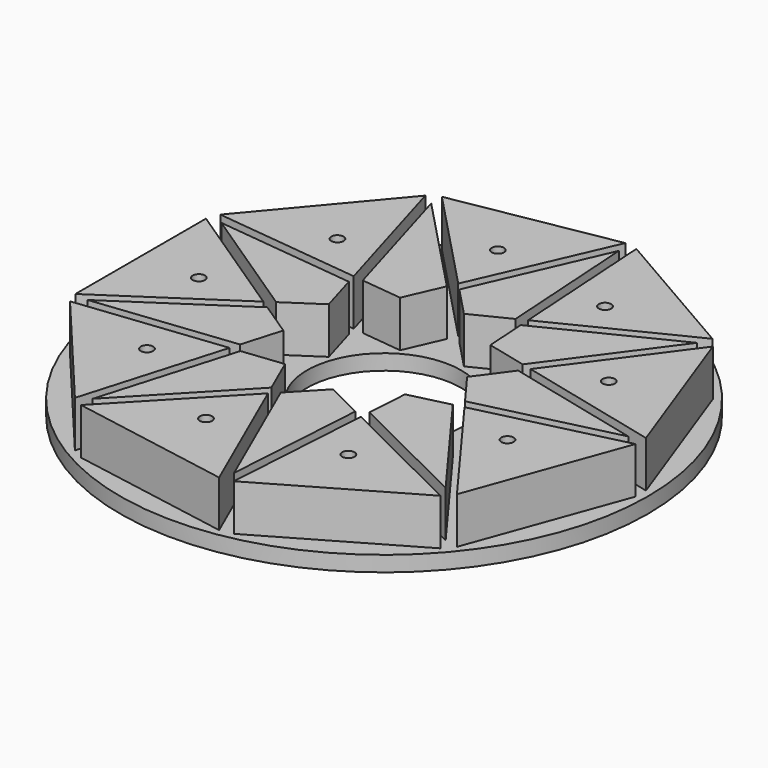
from build123d import *

# Parameters (mm, degrees)
SKETCH002_R   = 85.5
SKETCH002_R_2 = 25
PAD_DEPTH     = 5
PAD001_DEPTH  = 20
SKETCH001_R   = 2
POCKET_DEPTH  = 20.001


with BuildPart() as part:
    # Sketch002 → Pad (new body)
    with BuildSketch(Plane.XY):
        Circle(SKETCH002_R)
        Circle(SKETCH002_R_2, mode=Mode.SUBTRACT)
    extrude(amount=PAD_DEPTH)

    # Sketch → Pad001 (join)
    with BuildSketch(Plane.XY):
        Polygon((16.521561, 81.502157), (62.322158, 55.05917), (19.550743, 33.86288), align=None)
        Polygon((-39.732327, 73.054129), (12.350191, 82.237682), (-6.789902, 38.507446), align=None)
        Polygon((13.742249, 77.936164), (-4.545372, 36.15361), (4.670681, 26.488746), (16.636515, 32.418672), align=None)
        Polygon((19.757136, 30.616981), (60.623574, 50.869218), (33.582631, 14.140398), (20.604587, 17.289301), align=None)
        Polygon((65.044827, 51.81442), (36.743377, 13.373496), (83.132895, 2.11786), align=None)
        Polygon((34.81506, 10.754326), (79.138455, 0), (34.81506, -10.754326), (26.897378, 0), align=None)
        Polygon((36.743377, -13.373496), (83.132895, -2.11786), (65.044827, -51.81442), align=None)
        Polygon((20.604587, -17.289301), (33.582631, -14.140398), (60.623574, -50.869218), (19.757136, -30.616981), align=None)
        Polygon((19.550743, -33.86288), (16.521561, -81.502157), (62.322158, -55.05917), align=None)
        Polygon((4.670681, -26.488746), (16.636515, -32.418672), (13.742249, -77.936164), (-4.545372, -36.15361), align=None)
        Polygon((-6.789902, -38.507446), (12.350191, -82.237682), (-39.732327, -73.054129), align=None)
        Polygon((-26.721049, -24.773563), (-13.448689, -23.293813), (-8.094011, -35.527889), (-39.569228, -68.535913), align=None)
        Polygon((-29.953476, -25.13395), (-43.400568, -70.936269), (-77.395018, -30.423262), align=None)
        Polygon((-74.365822, -27.066946), (-36.393651, -1.801691), (-25.275268, -9.199445), (-29.037259, -22.013212), align=None)
        Polygon((-39.101485, 0), (-78.843719, -26.442988), (-78.843719, 26.442988), align=None)
        Polygon((-74.365822, 27.066946), (-36.393651, 1.801691), (-25.275268, 9.199445), (-29.037259, 22.013212), align=None)
        Polygon((-77.395018, 30.423262), (-43.400568, 70.936269), (-29.953476, 25.13395), align=None)
        Polygon((-39.569228, 68.535913), (-26.721049, 24.773563), (-13.448689, 23.293813), (-8.094011, 35.527889), align=None)
    extrude(amount=PAD001_DEPTH)

    # Sketch001 → Pocket (cut, through all)
    with BuildSketch(Plane.XY):
        with Locations((-10.418201, 59.088587)):
            Circle(SKETCH001_R)
        with Locations((30.000606, 51.961174)):
            Circle(SKETCH001_R)
        with Locations((-45.962216, 38.567793)):
            Circle(SKETCH001_R)
        with Locations((-60, 0.0007)):
            Circle(SKETCH001_R)
        with Locations((-45.963117, -38.56672)):
            Circle(SKETCH001_R)
        with Locations((-10.41958, -59.088344)):
            Circle(SKETCH001_R)
        with Locations((29.999394, -51.961874)):
            Circle(SKETCH001_R)
        with Locations((56.381318, -20.521867)):
            Circle(SKETCH001_R)
        with Locations((56.381797, 20.520551)):
            Circle(SKETCH001_R)
    extrude(amount=POCKET_DEPTH, mode=Mode.SUBTRACT)


solid = part.part
